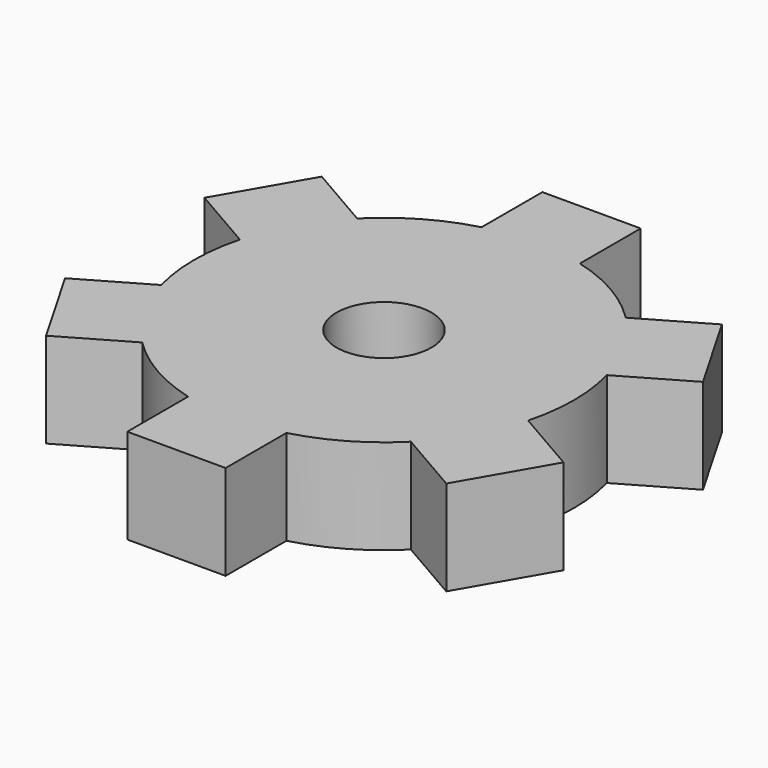
from build123d import *

# Parameters (mm, degrees)
F0_R     = 25.4
F1_DEPTH = 12.7
F3_DEPTH = 12.7
F5_COUNT = 6
F6_R     = 6.35
F7_DEPTH = 25.4
F8_T     = -2.54


with BuildPart() as f1:
    # F0 (on Top) → F1 (new body)
    with BuildSketch(Plane.XY):
        Circle(F0_R)
    extrude(amount=F1_DEPTH)

    # F2 (on face) → F3 (join)
    with BuildSketch(Plane.XY.offset(12.7)):
        Polygon((-6.5740037456, 24.5345159877), (0, 0), (0, 24.5345159877), align=None)
        Polygon((0, 24.5345159877), (0, 0), (6.5740037456, 24.5345159877), align=None)
        Polygon((-6.5740037456, 24.5345159877), (0, 24.5345159877), (6.5740037456, 24.5345159877), (6.5740037456, 34.6945151687), (-6.5740037456, 34.6945151687), align=None)
    extrude(amount=-F3_DEPTH)

    # F5: F1 ×6 about axis
    f5_axis = Axis((0, 0, 27.9026478529), (0, 0, 1))


with BuildPart() as f1_1:
    add(f1.part)
    for i in range(1, F5_COUNT):
        add(f1.part.rotate(f5_axis, i * 360 / F5_COUNT))

    # F6 (on face) → F7 (cut)
    with BuildSketch(Plane.XY.offset(12.7)):
        Circle(F6_R)
    extrude(amount=-F7_DEPTH, mode=Mode.SUBTRACT)

    # F8
    f8_openings = [f1_1.faces().sort_by_distance(p)[0] for p in [
        (-24.437748, 0, 0),
    ]]
    offset(amount=F8_T, openings=f8_openings, kind=Kind.INTERSECTION)


solid = f1_1.part
